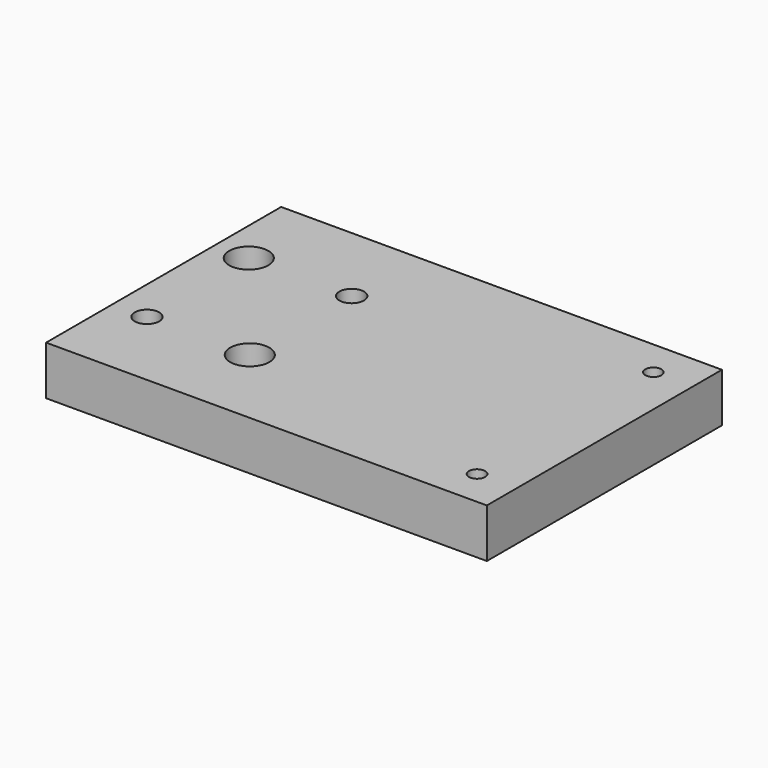
from build123d import *

# Parameters (mm, degrees)
F0_W           = 90
F0_H           = 60
F1_DEPTH       = 10
F3_D           = 4.5
F3_CBORE_D     = 8
F3_CBORE_DEPTH = 4.4
F5_D           = 5
F7_D           = 3.3


with BuildPart() as f1:
    # F0 (on Top) → F1 (new body)
    with BuildSketch(Plane.XY):
        Rectangle(F0_W, F0_H)
    extrude(amount=F1_DEPTH)

    # F3 (through all)
    with Locations(Plane.XY.offset(10)):
        with Locations((-38, 12.9876444116), (-17, -13.0123555884)):
            CounterBoreHole(F3_D / 2, F3_CBORE_D / 2, F3_CBORE_DEPTH)

    # F5 (through all)
    with Locations(Plane.XY.offset(10)):
        with Locations((-38, -13), (-17, 13)):
            Hole(F5_D / 2)

    # F7 (through all)
    with Locations(Plane.XY.offset(10)):
        with Locations((37, 22.5), (37, -22.5)):
            Hole(F7_D / 2)


solid = f1.part
